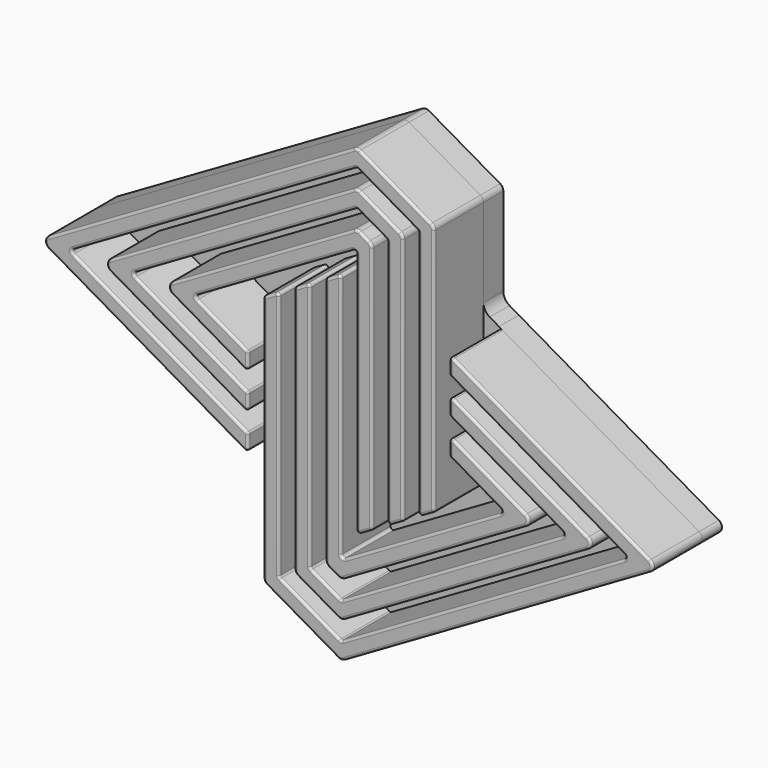
from build123d import *

# Parameters (mm, degrees)
F1_DEPTH = 2.5
F3_DEPTH = 25
F5_DEPTH = 25
F7_DEPTH = 1
F8_R     = 0.25
F8_2_R   = 0.25
F8_3_R   = 0.25
F9_R     = 0.1
F9_2_R   = 0.1
F10_R    = 0.1
F10_2_R  = 0.1
F11_R    = 0.5


with BuildPart() as f1:
    # F0 (on Front) → F1 (new body)
    with BuildSketch(Plane.XZ):
        Polygon((0.313, 9.21875), (-12.5, 1.8), (-4.0625, -3.0713928963), (-4.0625, 0.5370462861), (-6.256692392, 1.8038638543), (0.313, 5.6077275423), (0.313, -4.5233008372), (3.4375, -2.7141391299), (3.4375, 7.41875), align=None)
    extrude(amount=F1_DEPTH)

    # F2 (on face) → F3 (cut)
    with BuildSketch(Plane.XZ.offset(2.5)):
        Polygon((0.3137873715, 8.497001398), (-11.2513384784, 1.8007727709), (-4.0625, -2.3497050598), (-4.0625, -1.6280172233), (-10.0026769568, 1.8015455417), (0.3145747431, 7.775252796), (2.1875, 6.6962752116), (2.1875, -3.4379196177), (2.8125, -3.0760293738), (2.8125, 7.0575126058), align=None)
        Polygon((0.3153621146, 7.053504194), (-8.7540154352, 1.8023183126), (-4.0625, -0.9063293868), (-4.0625, -0.1846415503), (-7.5053539136, 1.8030910835), (0.3161494862, 6.331755592), (0.9375, 5.9738004232), (0.9375, -4.1617001055), (1.5625, -3.7998098616), (1.5625, 6.3350378174), align=None)
    extrude(amount=-F3_DEPTH, mode=Mode.SUBTRACT)

    # F8
    f8_edges = [f1.edges().sort_by_distance(p)[0] for p in [
        (-12.5, -1.25, 1.8),
        (0.313, -1.25, 9.21875),
        (3.4375, -1.25, 7.41875),
        (0.316149, -1.25, 6.331756),
        (0.9375, -1.25, 5.9738),
        (2.1875, -1.25, 6.696275),
        (0.314575, -1.25, 7.775253),
        (-10.002677, -1.25, 1.801546),
        (-7.505354, -1.25, 1.803091),
    ]]
    fillet(f8_edges, radius=F8_R)

    # F9#2
    f9_2_edges = [f1.edges().sort_by_distance(p)[0] for p in [
        (0.313, -1.25, 5.607728),
        (0.315362, -1.25, 7.053504),
        (1.5625, -1.25, 6.335038),
        (2.8125, -1.25, 7.057513),
        (0.313787, -1.25, 8.497001),
        (-11.251338, -1.25, 1.800773),
        (-8.754015, -1.25, 1.802318),
        (-6.256692, -1.25, 1.803864),
        (3.4375, -1.25, -2.714139),
        (2.8125, -1.25, -3.076029),
        (2.1875, -1.25, -3.43792),
        (1.5625, -1.25, -3.79981),
        (0.9375, -1.25, -4.1617),
        (0.313, -1.25, -4.523301),
        (-4.0625, -1.25, 0.537046),
        (-4.0625, -1.25, -0.906329),
        (-4.0625, -1.25, -2.349705),
        (-4.0625, -1.25, -0.184642),
        (-4.0625, -1.25, -1.628017),
        (-4.0625, -1.25, -3.071393),
    ]]
    fillet(f9_2_edges, radius=F9_2_R)

    # F10#2
    f10_2_edges = [f1.edges().sort_by_distance(p)[0] for p in [
        (3.4375, -2.5, 2.308884),
        (2.1875, -2.5, 1.585756),
        (0.9375, -2.5, 0.862628),
    ]]
    fillet(f10_2_edges, radius=F10_2_R)


with BuildPart() as f1b:
    # F0 (on Front) → F1, piece 2 (new body)
    with BuildSketch(Plane.XZ):
        Polygon((-3.4375, -7.41875), (-0.3125, -9.21875), (12.5, -1.8), (4.0625, 3.0713928963), (4.0625, -0.5370462861), (6.2567837877, -1.8039166216), (-0.3125, -5.6076921611), (-0.3125, 4.5233574279), (-3.4375, 2.7139768184), (-3.4375, 1.8), align=None)
    extrude(amount=F1_DEPTH)

    # F4 (on face) → F5 (cut)
    with BuildSketch(Plane.XZ.offset(2.5)):
        Polygon((-0.3133184417, -8.4970123299), (11.2513567575, -1.8007833243), (4.0625, 2.3497050598), (4.0625, 1.6280172233), (10.0027135151, -1.8015666487), (-0.3141368834, -7.7752746599), (-2.1875, -6.6962175047), (-2.1875, 1.8), (-2.1875, 3.4377290622), (-2.8125, 3.0758529403), (-2.8125, 1.8), (-2.8125, -7.0574837523), align=None)
        Polygon((-0.3149553251, -7.0535369898), (8.7540702726, -1.802349973), (4.0625, 0.9063293868), (4.0625, 0.1846415503), (7.5054270301, -1.8031332973), (-0.3157737668, -6.3317993197), (-0.9375, -5.9736850094), (-0.9375, 1.8), (-0.9375, 4.161481306), (-1.5625, 3.7996051841), (-1.5625, 1.8), (-1.5625, -6.334951257), align=None)
    extrude(amount=-F5_DEPTH, mode=Mode.SUBTRACT)

    # F8#2
    f8_2_edges = [f1b.edges().sort_by_distance(p)[0] for p in [
        (12.5, -1.25, -1.8),
        (-3.4375, -1.25, -7.41875),
        (-0.3125, -1.25, -9.21875),
        (-2.1875, -1.25, -6.696218),
        (-0.314137, -1.25, -7.775275),
        (-0.9375, -1.25, -5.973685),
        (-0.315774, -1.25, -6.331799),
        (10.002714, -1.25, -1.801567),
        (7.505427, -1.25, -1.803133),
    ]]
    fillet(f8_2_edges, radius=F8_2_R)

    # F9
    f9_edges = [f1b.edges().sort_by_distance(p)[0] for p in [
        (-0.313318, -1.25, -8.497012),
        (-2.8125, -1.25, -7.057484),
        (-0.314955, -1.25, -7.053537),
        (-1.5625, -1.25, -6.334951),
        (-0.3125, -1.25, -5.607692),
        (6.256784, -1.25, -1.803917),
        (8.75407, -1.25, -1.80235),
        (11.251357, -1.25, -1.800783),
        (4.0625, -1.25, -0.537046),
        (4.0625, -1.25, 0.184642),
        (4.0625, -1.25, 0.906329),
        (4.0625, -1.25, 1.628017),
        (4.0625, -1.25, 2.349705),
        (4.0625, -1.25, 3.071393),
        (-3.4375, -1.25, 2.713977),
        (-2.1875, -1.25, 3.437729),
        (-1.5625, -1.25, 3.799605),
        (-0.3125, -1.25, 4.523357),
        (-0.9375, -1.25, 4.161481),
        (-2.8125, -1.25, 3.075853),
    ]]
    fillet(f9_edges, radius=F9_R)

    # F10
    f10_edges = [f1b.edges().sort_by_distance(p)[0] for p in [
        (8.169021, -2.5, 0.700492),
        (6.920378, -2.5, -0.021979),
        (5.671735, -2.5, -0.744451),
    ]]
    fillet(f10_edges, radius=F10_R)


with BuildPart() as f7:
    # F6 (on face) → F7 (new body)
    with BuildSketch(Plane(origin=(0, 0, 0), x_dir=(-1, 0, 0), z_dir=(0, 1, 0))):
        Polygon((-4.0625, 3.0713928963), (-12.5, -1.8), (0.3125, -9.21875), (3.4375, -7.41875), (3.4375, -3.4322368145), (4.0625, -3.0713928963), (12.5, 1.8), (-0.313, 9.21875), (-3.4375, 7.41875), (-3.4375, 3.4322368145), align=None)
    extrude(amount=F7_DEPTH)

    # F8#3
    f8_3_edges = [f7.edges().sort_by_distance(p)[0] for p in [
        (12.5, 0.5, -1.8),
        (-12.5, 0.5, 1.8),
        (0.313, 0.5, 9.21875),
        (3.4375, 0.5, 7.41875),
        (-3.4375, 0.5, -7.41875),
        (-0.3125, 0.5, -9.21875),
    ]]
    fillet(f8_3_edges, radius=F8_3_R)

    # F11
    f11_edges = [f7.edges().sort_by_distance(p)[0] for p in [
        (-3.4375, 0.5, -3.432237),
        (3.4375, 0.5, 3.432237),
    ]]
    fillet(f11_edges, radius=F11_R)


solid = Compound([f1.part, f1b.part, f7.part])
